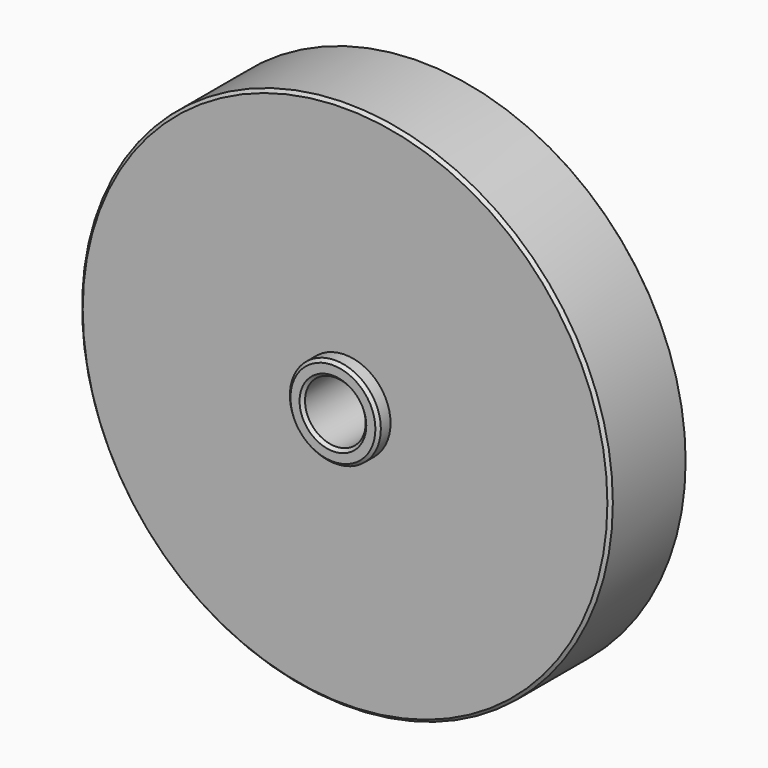
from build123d import *

# Parameters (mm, degrees)
F0_R     = 43.75
F0_R_2   = 5
F1_DEPTH = 16
F2_R     = 7.5
F2_R_2   = 5
F3_DEPTH = 2.5
F4_R     = 39.3
F4_R_2   = 36.5
F4_R_3   = 32.8
F4_R_4   = 30
F5_DEPTH = 2.75
F6_SIZE  = 0.5


with BuildPart() as f1:
    # F0 (on Front) → F1 (new body)
    with BuildSketch(Plane.XZ):
        Circle(F0_R)
        Circle(F0_R_2, mode=Mode.SUBTRACT)
    extrude(amount=F1_DEPTH)

    # F2 (on face) → F3 (join)
    with BuildSketch(Plane.XZ.offset(16)):
        Circle(F2_R)
        Circle(F2_R_2, mode=Mode.SUBTRACT)
    extrude(amount=F3_DEPTH)

    # F4 (on face) → F5 (cut)
    with BuildSketch(Plane(origin=(0, 0, 0), x_dir=(-1, 0, 0), z_dir=(0, 1, 0))):
        Circle(F4_R)
        Circle(F4_R_2, mode=Mode.SUBTRACT)
        Circle(F4_R_3)
        Circle(F4_R_4, mode=Mode.SUBTRACT)
    extrude(amount=-F5_DEPTH, mode=Mode.SUBTRACT)

    # F6
    f6_edges = [f1.edges().sort_by_distance(p)[0] for p in [
        (-7.5, -18.5, 0),
        (-5, -18.5, 0),
        (-43.75, -16, 0),
        (-43.75, 0, 0),
        (-5, 0, 0),
    ]]
    chamfer(f6_edges, length=F6_SIZE)


solid = f1.part
